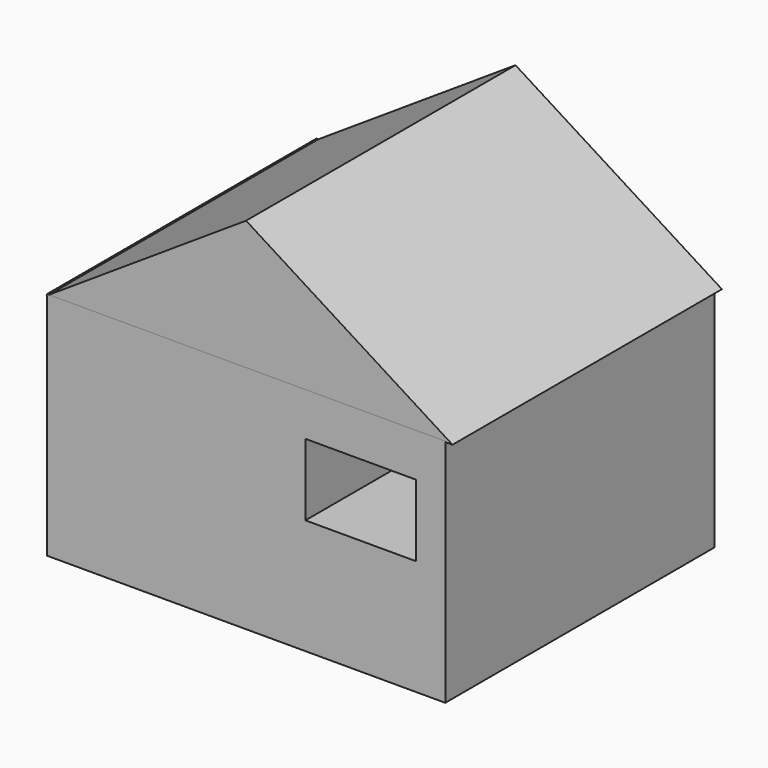
from build123d import *

# Parameters (mm, degrees)
F4_DEPTH = 127
F2_W     = 150.2084136009
F2_H     = 86.8601500988
F2_W_2   = 41.7817831039
F2_H_2   = 27.0675420761


with BuildPart() as f4:
    # F1 (on Front) → F4 (new body)
    with BuildSketch(Plane.XZ):
        Polygon((0, 92.2183766961), (-75.4385888577, 42.7250191569), (77.8357088566, 43.1480407715), align=None)
    extrude(amount=F4_DEPTH)


with BuildPart() as f4b:
    # F2 (on face) → F4, piece 2 (new body)
    with BuildSketch(Plane.XZ):
        Rectangle(F2_W, F2_H)
        with Locations((43.2593524456, 13.5337710381)):
            Rectangle(F2_W_2, F2_H_2, mode=Mode.SUBTRACT)
    extrude(amount=F4_DEPTH)


solid = Compound([f4.part, f4b.part])
